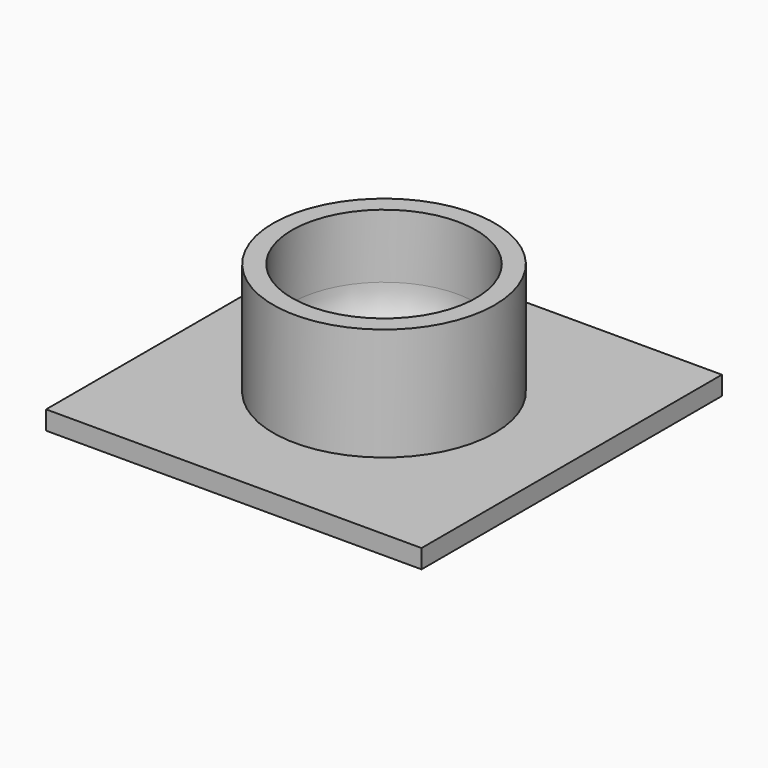
from build123d import *

# Parameters (mm, degrees)
F0_W     = 50
F0_H     = 5
F2_DEPTH = 50


with BuildPart() as f1:
    # F0 (on Front) → F1 (revolve)
    with BuildSketch(Plane.XZ):
        Polygon((-29.5, 0), (-24.5, 0), (-24.5, 13), (-24.5, 30), (-29.5, 30), align=None)
        with BuildLine():
            Line((-24.5, 0), (-17.75, 0))
            ThreePointArc((-17.75, 0), (-22.711917, 5.676024), (-24.5, 13))
            Line((-24.5, 13), (-24.5, 0))
        make_face()
    revolve(axis=Axis((0, 0, -2.5), (0, 0, -1)))

    # F0 (on Front) → F2 (join, symmetric)
    with BuildSketch(Plane.XZ):
        Polygon((0, -5), (0, 0), (-17.75, 0), (-24.5, 0), (-29.5, 0), (-50, 0), (-50, -5), align=None)
        with Locations((25, -2.5)):
            Rectangle(F0_W, F0_H)
    extrude(amount=F2_DEPTH, both=True)


with BuildPart() as f3_1:
    # F3: copy of F1
    add(f1.part)


solid = f1.part
